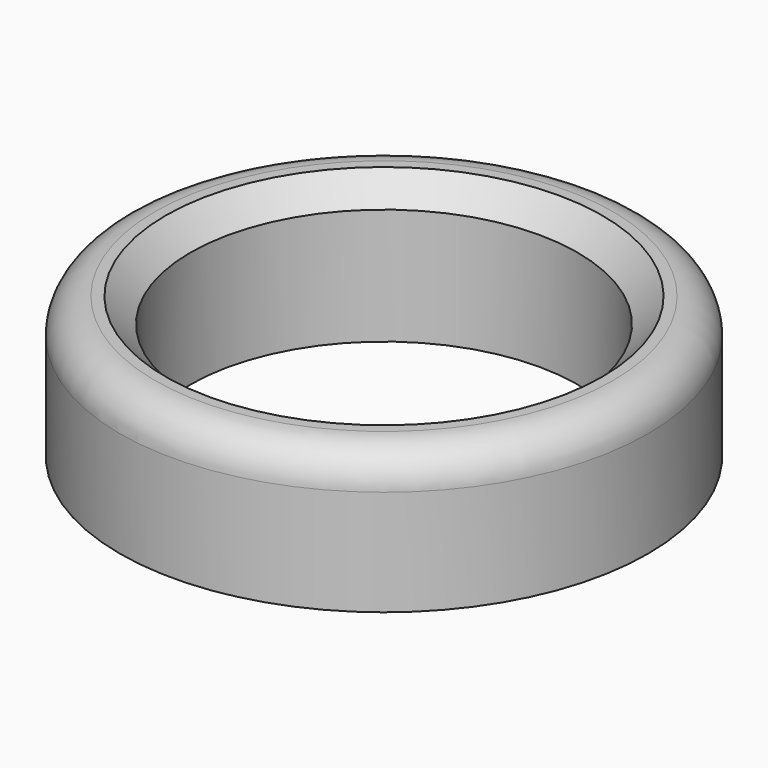
from build123d import *

# Parameters (mm, degrees)
F0_R     = 37.5
F0_R_2   = 27.5
F1_DEPTH = 20
F2_SIZE  = 3.5
F3_R     = 5


with BuildPart() as f1:
    # F0 (on Top) → F1 (new body)
    with BuildSketch(Plane.XY):
        Circle(F0_R)
        Circle(F0_R_2, mode=Mode.SUBTRACT)
    extrude(amount=F1_DEPTH)

    # F2
    f2_edges = [f1.edges().sort_by_distance(p)[0] for p in [
        (-27.5, 0, 20),
    ]]
    chamfer(f2_edges, length=F2_SIZE)

    # F3
    f3_edges = [f1.edges().sort_by_distance(p)[0] for p in [
        (-37.5, 0, 20),
    ]]
    fillet(f3_edges, radius=F3_R)


solid = f1.part
